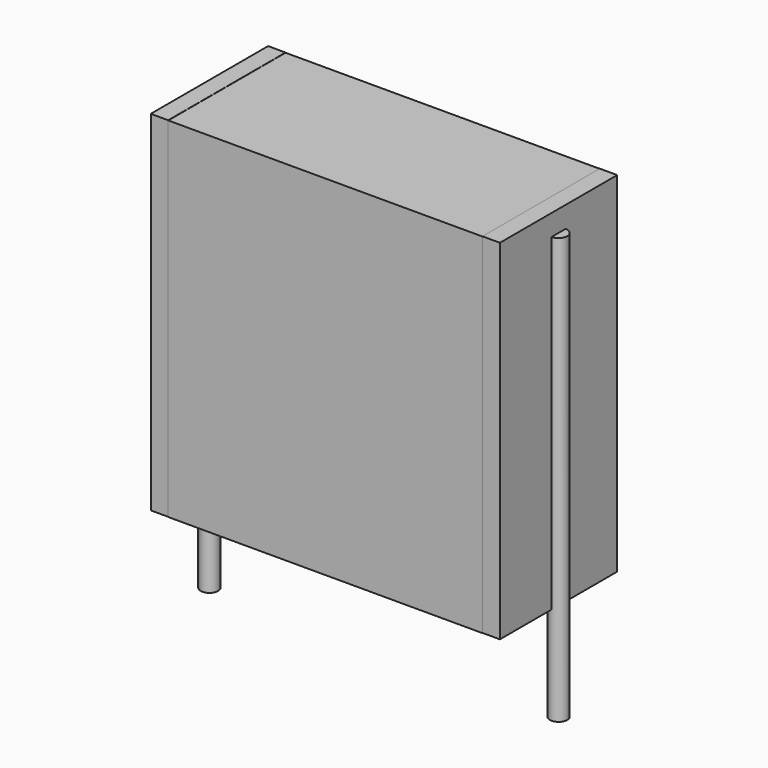
from build123d import *

# Parameters (mm, degrees)
SKETCH_W          = 9
SKETCH_H          = 4.2
PAD_DEPTH         = 10
SKETCH001_R       = 0.25
PAD001_DEPTH      = 9
PAD001_DEPTH_BACK = 3.2
SKETCH002_W       = 0.5
SKETCH002_H       = 4.2
PAD002_DEPTH      = 10


with BuildPart() as pad:
    # Sketch → Pad (new body)
    with BuildSketch(Plane.XY.offset(0.1)):
        with Locations((5, 0)):
            Rectangle(SKETCH_W, SKETCH_H)
    extrude(amount=PAD_DEPTH)


with BuildPart() as pad001:
    # Sketch001 → Pad001 (new body, two sides)
    with BuildSketch(Plane.XY.offset(0.5)) as pad001_sk:
        Circle(SKETCH001_R)
        with Locations((10, 0)):
            Circle(SKETCH001_R)
    extrude(amount=PAD001_DEPTH)
    extrude(pad001_sk.sketch, amount=-PAD001_DEPTH_BACK)


with BuildPart() as pad002:
    # Sketch002 → Pad002 (new body)
    with BuildSketch(Plane.XY.offset(0.105)):
        with Locations((0.25, 0)):
            Rectangle(SKETCH002_W, SKETCH002_H)
        with Locations((9.75, 0)):
            Rectangle(SKETCH002_W, SKETCH002_H)
    extrude(amount=PAD002_DEPTH)


solid = Compound([pad.part, pad001.part, pad002.part])
